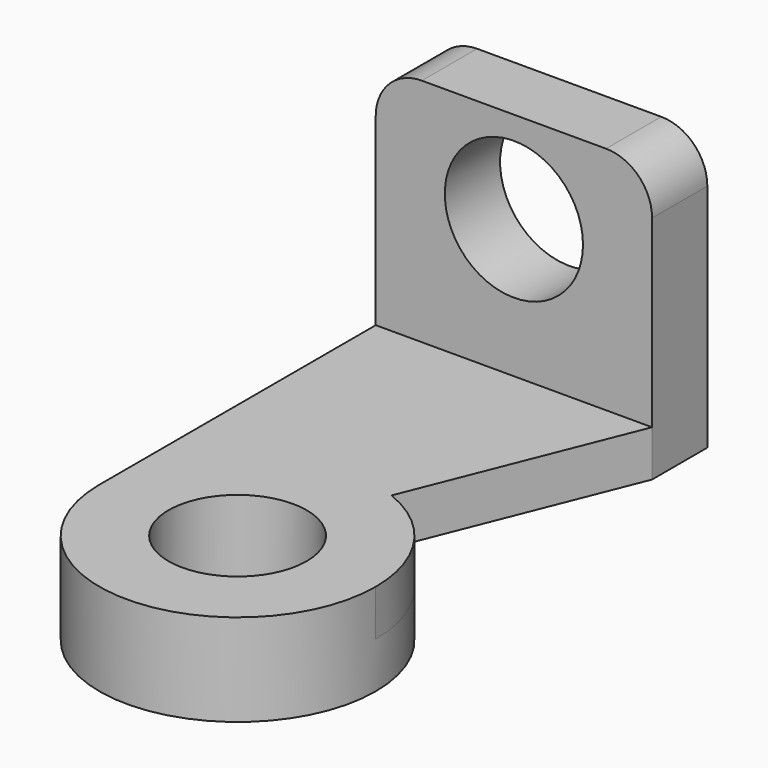
from build123d import *

# Parameters (mm, degrees)
F0_R     = 15
F1_DEPTH = 15
F2_R     = 15
F3_DEPTH = 10
F4_R     = 30
F4_R_2   = 15
F5_DEPTH = 10


with BuildPart() as f1:
    # F0 (on Front) → F1 (new body)
    with BuildSketch(Plane.XZ):
        with BuildLine():
            ThreePointArc((30, 15), (27.071068, 22.071068), (20, 25))
            Line((20, 25), (-20, 25))
            ThreePointArc((-20, 25), (-27.071068, 22.071068), (-30, 15))
            Line((-30, 15), (-30, -25))
            Line((-30, -25), (30, -25))
            Line((30, -25), (30, 15))
        make_face()
        with Locations((0, 5)):
            Circle(F0_R, mode=Mode.SUBTRACT)
    extrude(amount=F1_DEPTH)

    # F2 (on face) → F3 (join)
    with BuildSketch(Plane(origin=(0, 0, -25), x_dir=(1, 0, 0), z_dir=(0, 0, -1))):
        with BuildLine():
            ThreePointArc((11.14172, 62.145699), (24.842017, 73.181136), (30, 90))
            ThreePointArc((30, 90), (0, 120), (-30, 90))
            ThreePointArc((-30, 90), (-16.818864, 65.157983), (11.14172, 62.145699))
        make_face()
        with Locations((0, 90)):
            Circle(F2_R, mode=Mode.SUBTRACT)
        with BuildLine():
            ThreePointArc((11.14172, 62.145699), (-16.818864, 65.157983), (-30, 90))
            Line((-30, 90), (-30, 15))
            Line((-30, 15), (-30, 0))
            Line((-30, 0), (30, 0))
            Line((30, 0), (30, 15))
            Line((30, 15), (11.14172, 62.145699))
        make_face()
    extrude(amount=F3_DEPTH)

    # F4 (on face) → F5 (join)
    with BuildSketch(Plane(origin=(0, 0, -35), x_dir=(1, 0, 0), z_dir=(0, 0, -1))):
        with Locations((0, 90)):
            Circle(F4_R)
        with Locations((0, 90)):
            Circle(F4_R_2, mode=Mode.SUBTRACT)
    extrude(amount=F5_DEPTH)


solid = f1.part
